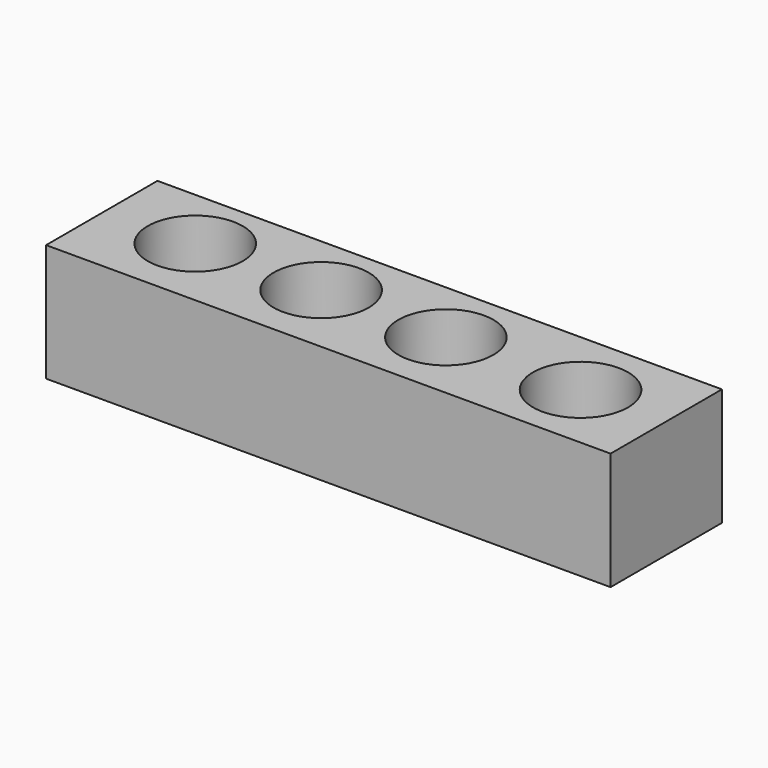
from build123d import *

# Parameters (mm, degrees)
F0_R     = 20.526502
F1_DEPTH = 50.8


with BuildPart() as f1:
    # F0 (on Top) → F1 (new body)
    with BuildSketch(Plane.XY):
        Polygon((150.886774, 27.849033), (-93.006104, 27.849033), (-93.006104, -32.302171), (150.886774, -32.302171), (150.886774, -2.226569), align=None)
        with Locations((-54.398105, 0)):
            Circle(F0_R, mode=Mode.SUBTRACT)
        Circle(F0_R, mode=Mode.SUBTRACT)
        with Locations((54.421693, -0.663921)):
            Circle(F0_R, mode=Mode.SUBTRACT)
        with Locations((113.865569, -2.219602)):
            Circle(F0_R, mode=Mode.SUBTRACT)
    extrude(amount=F1_DEPTH)


solid = f1.part
